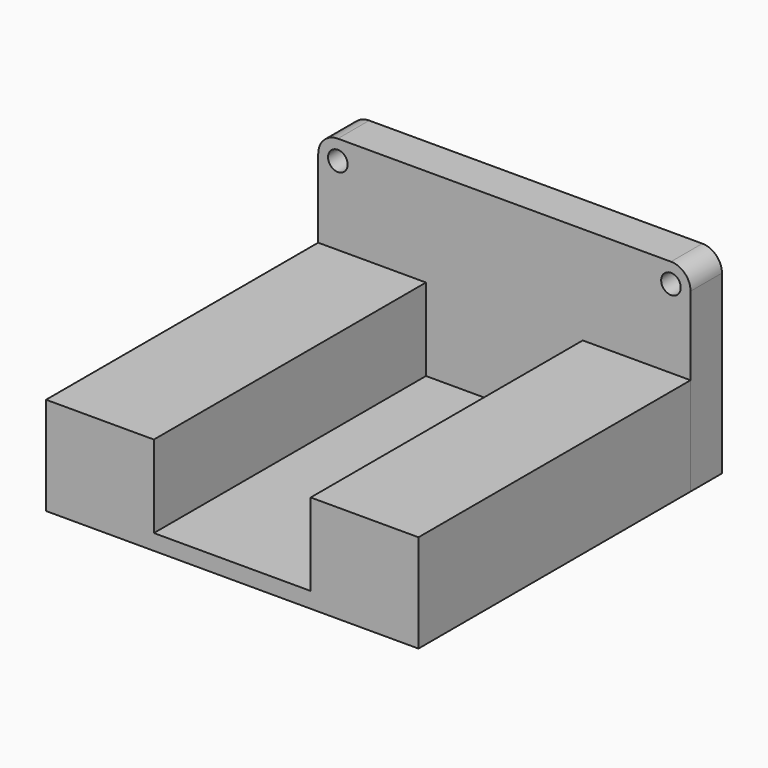
from build123d import *

# Parameters (mm, degrees)
F0_W      = 40
F0_H      = 86.76
F1_DEPTH  = 4
F2_W      = 95
F2_H      = 25
F3_DEPTH  = 27.5
F4_W      = 86.76
F4_H      = 25
F5_DEPTH  = 27.5
F6_W      = 94.977141
F6_H      = 50
F7_DEPTH  = 10
F8_R      = 5
F9_R      = 5
F10_R     = 2.5
F11_DEPTH = 10.001


with BuildPart() as f1:
    # F0 (on Top) → F1 (new body)
    with BuildSketch(Plane.XY):
        Rectangle(F0_W, F0_H)
    extrude(amount=F1_DEPTH)

    # F2 (on face) → F3 (join)
    with BuildSketch(Plane.YZ.offset(20)):
        with Locations((4.12, 12.5)):
            Rectangle(F2_W, F2_H)
    extrude(amount=F3_DEPTH)

    # F4 (on face) → F5 (join)
    with BuildSketch(Plane(origin=(-20, 0, 0), x_dir=(0, -1, 0), z_dir=(-1, 0, 0))):
        with Locations((0, 12.5)):
            Rectangle(F4_W, F4_H)
    extrude(amount=F5_DEPTH)

    # F6 (on face) → F7 (join)
    with BuildSketch(Plane(origin=(0, 43.38, 0), x_dir=(-1, 0, 0), z_dir=(0, 1, 0))):
        with Locations((-0.01143, 25)):
            Rectangle(F6_W, F6_H)
    extrude(amount=F7_DEPTH)

    # F8
    f8_edges = [f1.edges().sort_by_distance(p)[0] for p in [
        (47.5, 48.38, 50),
    ]]
    fillet(f8_edges, radius=F8_R)

    # F9
    f9_edges = [f1.edges().sort_by_distance(p)[0] for p in [
        (-47.477141, 48.38, 50),
    ]]
    fillet(f9_edges, radius=F9_R)

    # F10 (on face) → F11 (cut, through all)
    with BuildSketch(Plane.XZ.offset(-43.38)):
        with Locations((-42.477141, 45)):
            Circle(F10_R)
        with Locations((42.5, 45)):
            Circle(F10_R)
    extrude(amount=-F11_DEPTH, mode=Mode.SUBTRACT)


solid = f1.part
